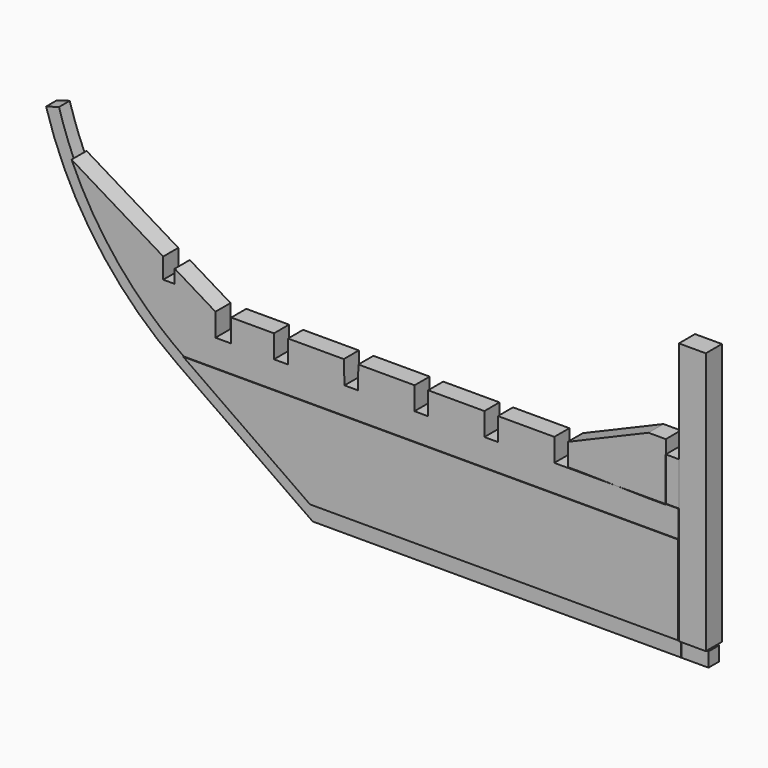
from build123d import *

# Parameters (mm, degrees)
F0_W     = 273.742232
F0_H     = 66
F0_W_2   = 20
F0_H_2   = 195
F1_DEPTH = 7.5
F0_H_3   = 12.207746
F0_H_4   = 10.624433
F2_DEPTH = 5
F0_W_3   = 31.783938
F0_H_5   = 17.023131
F0_W_4   = 8.53467
F0_H_6   = 16.5
F0_W_5   = 9.833415
F0_H_7   = 32.222636
F3_DEPTH = 7


with BuildPart() as f1:
    # F0 (on Front) → F1 (new body, symmetric)
    with BuildSketch(Plane.XZ):
        Polygon((-218.642425, 8.615474), (-124.384657, -57.384526), (-124.384657, 8.615474), align=None)
        with Locations((12.486459, -24.384526)):
            Rectangle(F0_W, F0_H)
        with Locations((159.944269, 39.750233)):
            Rectangle(F0_W_2, F0_H_2)
    extrude(amount=F1_DEPTH, both=True)

    # F0 (on Front) → F2 (join, symmetric)
    with BuildSketch(Plane.XZ):
        with BuildLine():
            ThreePointArc((-322.654305, 137.615474), (-285.231903, 60.627292), (-224.37819, 0.423954))
            Line((-224.37819, 0.423954), (-218.642425, 8.615474))
            ThreePointArc((-218.642425, 8.615474), (-231.39374, 18.17899), (-243.494087, 28.553885))
            ThreePointArc((-243.494087, 28.553885), (-277.065868, 66.399638), (-302.120114, 110.350181))
            ThreePointArc((-302.120114, 110.350181), (-308.07916, 125.201227), (-313.052892, 140.410626))
            Line((-313.052892, 140.410626), (-322.654305, 137.615474))
        make_face()
        Polygon((-224.37819, 0.423954), (-124.384657, -69.592272), (-124.384657, -57.384526), (-218.642425, 8.615474), align=None)
        with Locations((12.486459, -63.488399)):
            Rectangle(F0_W, F0_H_3)
        with Locations((159.944269, -64.280056)):
            Rectangle(F0_W_2, F0_H_4)
    extrude(amount=F2_DEPTH, both=True)

    # F0 (on Front) → F3 (join, symmetric)
    with BuildSketch(Plane.XZ):
        Polygon((-124.384657, 8.615474), (149.357575, 8.615474), (149.357575, 28.553885), (139.782995, 28.553885), (139.782995, 28.090366), (126.893967, 28.090366), (102.716003, 28.553885), (56.893967, 28.553885), (14.893967, 28.553885), (4.893967, 28.553885), (-37.106033, 28.553885), (-47.106033, 28.553885), (-89.106033, 28.553885), (-99.106033, 28.553885), (-141.106033, 28.553885), (-151.591912, 28.553885), (-183.37585, 28.553885), (-195.098877, 28.553885), (-218.642425, 28.553885), (-218.642425, 8.615474), align=None)
        with BuildLine():
            ThreePointArc((-243.494087, 28.553885), (-231.39374, 18.17899), (-218.642425, 8.615474))
            Line((-218.642425, 8.615474), (-218.642425, 28.553885))
            Line((-218.642425, 28.553885), (-243.494087, 28.553885))
        make_face()
        with BuildLine():
            ThreePointArc((-302.120114, 110.350181), (-277.065868, 66.399638), (-243.494087, 28.553885))
            Line((-243.494087, 28.553885), (-218.642425, 28.553885))
            Line((-218.642425, 28.553885), (-195.098877, 28.553885))
            Line((-195.098877, 28.553885), (-195.098877, 45.577016))
            Line((-195.098877, 45.577016), (-225.37585, 63.901747))
            Line((-225.37585, 63.901747), (-225.37585, 53.901747))
            Line((-225.37585, 53.901747), (-233.930952, 53.901747))
            Line((-233.930952, 53.901747), (-233.930952, 69.079607))
            Line((-233.930952, 69.079607), (-302.120114, 110.350181))
        make_face()
        with Locations((-167.483881, 37.06545)):
            Rectangle(F0_W_3, F0_H_5)
        Polygon((-141.131371, 45.577016), (-141.106033, 28.553885), (-99.106033, 28.553885), (-99.691547, 45.577016), align=None)
        Polygon((-88.828683, 45.577016), (-89.106033, 28.553885), (-47.106033, 28.553885), (-46.986528, 45.577016), align=None)
        Polygon((-37.106033, 28.553885), (4.893967, 28.553885), (4.913834, 45.577016), (-36.928322, 45.577016), align=None)
        Polygon((14.893967, 28.553885), (56.893967, 28.553885), (56.893967, 45.577016), (14.972052, 45.577016), align=None)
        Polygon((102.716003, 28.553885), (126.893967, 28.553885), (126.893967, 71.053885), (66.893967, 45.577016), (75.428637, 45.577016), (75.428637, 29.077016), align=None)
        with Locations((71.161302, 37.327016)):
            Rectangle(F0_W_4, F0_H_6)
        Polygon((126.893967, 28.553885), (139.782995, 28.553885), (139.782995, 28.831249), (139.61641, 28.831249), (139.61641, 61.053885), (139.782995, 61.053885), (139.782995, 71.053885), (126.893967, 71.053885), align=None)
        with Locations((144.699703, 44.942567)):
            Rectangle(F0_W_5, F0_H_7)
    extrude(amount=F3_DEPTH, both=True)


solid = f1.part
